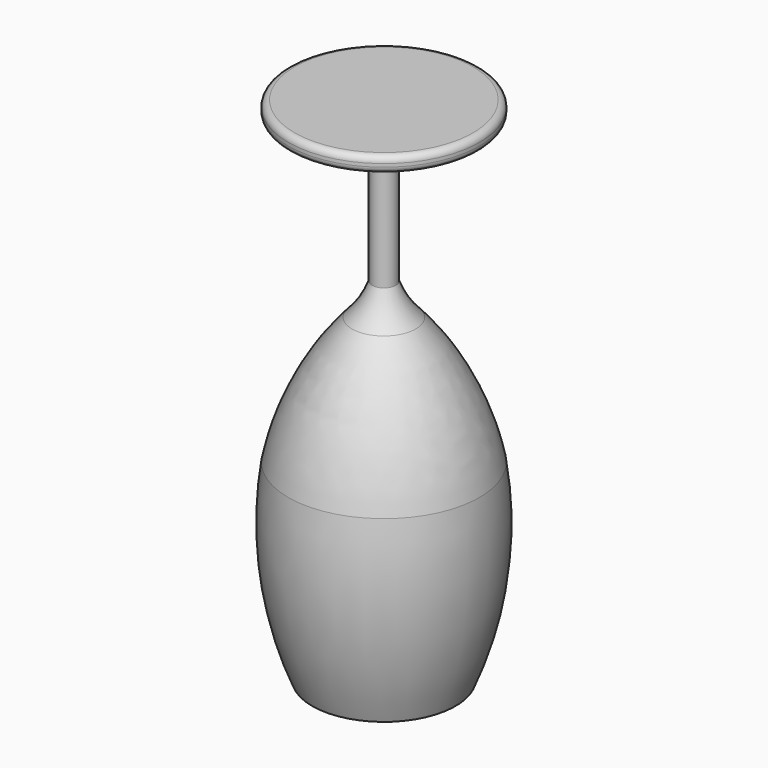
from build123d import *

# Parameters (mm, degrees)
F0_W = 4.7625
F0_H = 44.45
F2_R = 2.54


with BuildPart() as f1:
    # F0 (on Front) → F1 (revolve)
    with BuildSketch(Plane.XZ):
        with BuildLine():
            Line((0, 82.55), (0, 101.6))
            Line((0, 101.6), (-38.1, 101.6))
            Line((-38.1, 101.6), (-38.1, 95.25))
            Line((-38.1, 95.25), (-25.4, 95.25))
            ThreePointArc((-25.4, 95.25), (-13.283932, 91.820642), (-4.7625, 82.55))
            Line((-4.7625, 82.55), (0, 82.55))
        make_face()
        with Locations((-2.38125, 60.325)):
            Rectangle(F0_W, F0_H)
        with BuildLine():
            Line((0, 25.4), (0, 38.1))
            Line((0, 38.1), (-4.7625, 38.1))
            ThreePointArc((-4.7625, 38.1), (-8.015904, 31.302909), (-12.7, 25.4))
            Line((-12.7, 25.4), (0, 25.4))
        make_face()
        with BuildLine():
            Line((0, 0), (0, 25.4))
            Line((0, 25.4), (-12.7, 25.4))
            ThreePointArc((-12.7, 25.4), (-28.755373, 1.677686), (-38.1, -25.4))
            Line((-38.1, -25.4), (0, -25.4))
            Line((0, -25.4), (0, 0))
        make_face()
        with BuildLine():
            Line((0, -101.6), (0, -25.4))
            Line((0, -25.4), (-38.1, -25.4))
            ThreePointArc((-38.1, -25.4), (-38.61906, -64.160195), (-28.575, -101.6))
            Line((-28.575, -101.6), (0, -101.6))
        make_face()
    revolve(axis=Axis((0, 0, 50.8), (0, 0, -1)))

    # F2
    f2_edges = [f1.edges().sort_by_distance(p)[0] for p in [
        (38.1, 0, 101.6),
        (38.1, 0, 95.25),
    ]]
    fillet(f2_edges, radius=F2_R)


solid = f1.part
